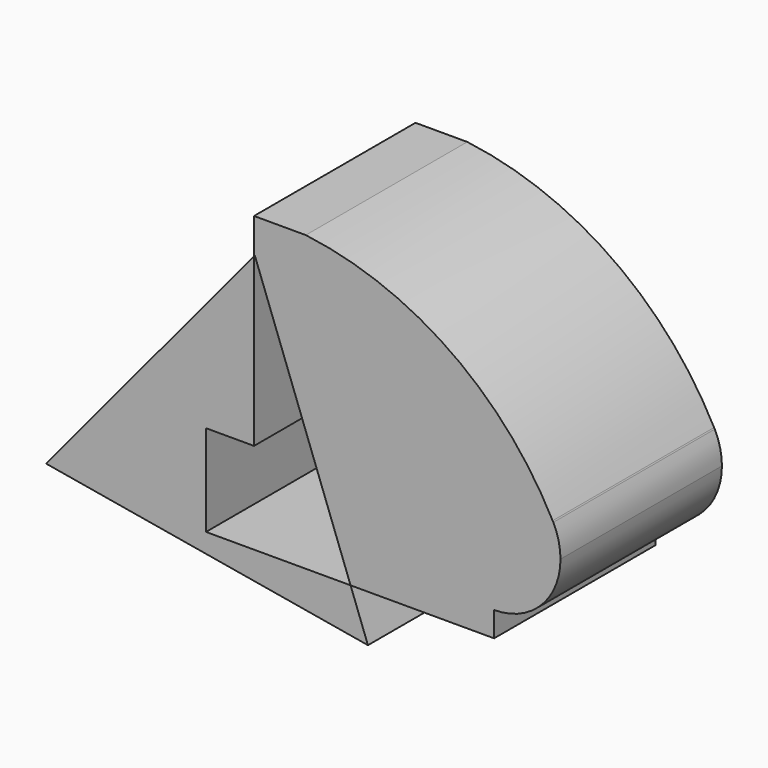
from build123d import *

# Parameters (mm, degrees)
F1_DEPTH = 66.04


with BuildPart() as f1:
    # F0 (on Front) → F1 (new body)
    with BuildSketch(Plane.XZ):
        Polygon((-83.5533812642, -14.4355650991), (-83.5533812642, 15.4525823891), (-67.8389966488, 15.4525823891), (-67.8389966488, 70.0966510831), (-135.8888346123, -11.7757903313), (-30.5558592081, -29.841825366), (-36.2449334465, -14.4355650991), align=None)
    extrude(amount=F1_DEPTH)


with BuildPart() as f1b:
    # F0 (on Front) → F1, piece 2 (new body)
    with BuildSketch(Plane.XZ):
        with BuildLine():
            Line((-50.8921071887, 25.2296179152), (-47.2817384181, 15.4525823891))
            Line((-47.2817384181, 15.4525823891), (-10.9871604214, 15.4525823891))
            ThreePointArc((-10.9871604214, 15.4525823891), (5.45282135, 36.5211134239), (29.8858612815, 25.6960240335))
            ThreePointArc((29.8858612815, 25.6960240335), (-3.6196561144, 63.6262987044), (-50.8921071887, 81.6995054483))
            Line((-50.8921071887, 81.6995054483), (-50.8921071887, 25.2296179152))
        make_face()
        with BuildLine():
            ThreePointArc((30.1035354219, 25.2781878101), (29.9958313087, 25.4876961421), (29.8858612815, 25.6960240335))
            ThreePointArc((29.8858612815, 25.6960240335), (29.9949304875, 25.4872268542), (30.1035354219, 25.2781878101))
        make_face()
        Polygon((-67.8389966488, 81.6995054483), (-67.8389966488, 70.0966510831), (-67.5767016245, 70.4122247076), (-50.8921071887, 25.2296179152), (-50.8921071887, 81.6995054483), align=None)
        with BuildLine():
            Line((10.7329366729, 15.4525823891), (-10.9871604214, 15.4525823891))
            ThreePointArc((-10.9871604214, 15.4525823891), (-4.6254912705, 0.0941544457), (10.7329366729, -6.2675147052))
            Line((10.7329366729, -6.2675147052), (10.7329366729, 15.4525823891))
        make_face()
        with BuildLine():
            ThreePointArc((29.8858612815, 25.6960240335), (5.45282135, 36.5211134239), (-10.9871604214, 15.4525823891))
            Line((-10.9871604214, 15.4525823891), (10.7329366729, 15.4525823891))
            Line((10.7329366729, 15.4525823891), (10.7329366729, -6.2675147052))
            ThreePointArc((10.7329366729, -6.2675147052), (26.0913646163, 0.0941544457), (32.4530337672, 15.4525823891))
            ThreePointArc((32.4530337672, 15.4525823891), (31.8574946965, 20.5038857942), (30.1035354219, 25.2781878101))
            ThreePointArc((30.1035354219, 25.2781878101), (29.9949304875, 25.4872268542), (29.8858612815, 25.6960240335))
        make_face()
        with BuildLine():
            Line((-47.2817384181, 15.4525823891), (-36.2449334465, -14.4355650991))
            Line((-36.2449334465, -14.4355650991), (10.7329366729, -14.4355650991))
            Line((10.7329366729, -14.4355650991), (10.7329366729, -6.2675147052))
            ThreePointArc((10.7329366729, -6.2675147052), (-4.6254912705, 0.0941544457), (-10.9871604214, 15.4525823891))
            Line((-10.9871604214, 15.4525823891), (-47.2817384181, 15.4525823891))
        make_face()
    extrude(amount=F1_DEPTH)


solid = Compound([f1.part, f1b.part])
